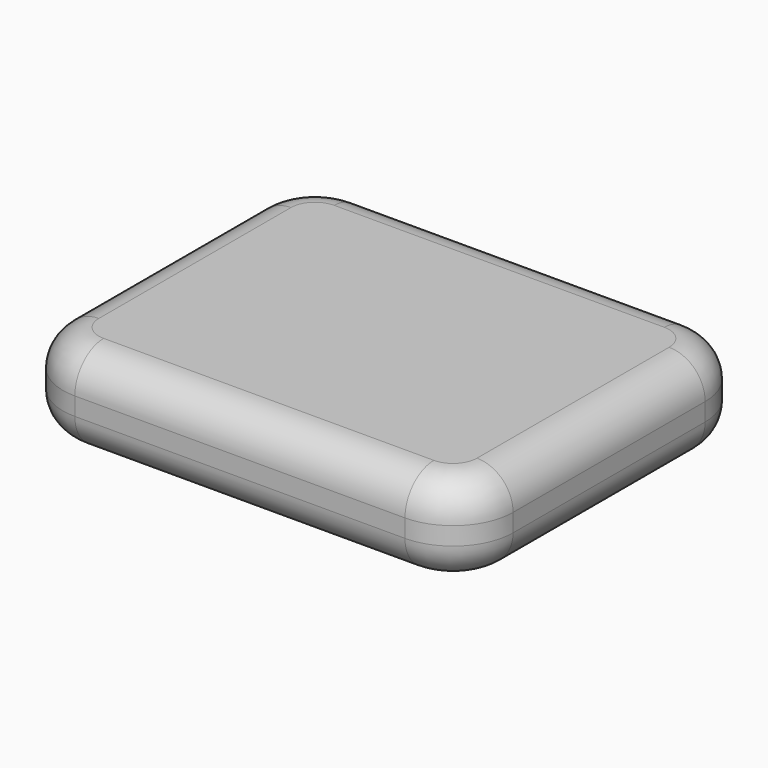
from build123d import *

# Parameters (mm, degrees)
F1_DEPTH = 38.1
F2_R     = 30.48
F3_DEPTH = 38.1
F4_R     = 30.48


with BuildPart() as f1:
    # F0 (on Top) → F1 (new body)
    with BuildSketch(Plane.XY):
        with BuildLine():
            Line((-139.7, -152.4), (139.7, -152.4))
            ThreePointArc((139.7, -152.4), (175.6210244843, -137.5210244843), (190.5, -101.6))
            Line((190.5, -101.6), (190.5, 101.6))
            ThreePointArc((190.5, 101.6), (175.6210244843, 137.5210244843), (139.7, 152.4))
            Line((139.7, 152.4), (-139.7, 152.4))
            ThreePointArc((-139.7, 152.4), (-175.6210244843, 137.5210244843), (-190.5, 101.6))
            Line((-190.5, 101.6), (-190.5, -101.6))
            ThreePointArc((-190.5, -101.6), (-175.6210244843, -137.5210244843), (-139.7, -152.4))
        make_face()
    extrude(amount=F1_DEPTH)

    # F2
    f2_edges = [f1.edges().sort_by_distance(p)[0] for p in [
        (0, -152.4, 0),
    ]]
    fillet(f2_edges, radius=F2_R)

    # F3 (add): a face of the model
    f3_faces = [f1.faces().sort_by_distance(p)[0] for p in [
        (0, 0, 38.1),
    ]]
    extrude(f3_faces, amount=F3_DEPTH)

    # F4
    f4_edges = [f1.edges().sort_by_distance(p)[0] for p in [
        (0, -152.4, 76.2),
    ]]
    fillet(f4_edges, radius=F4_R)


solid = f1.part
